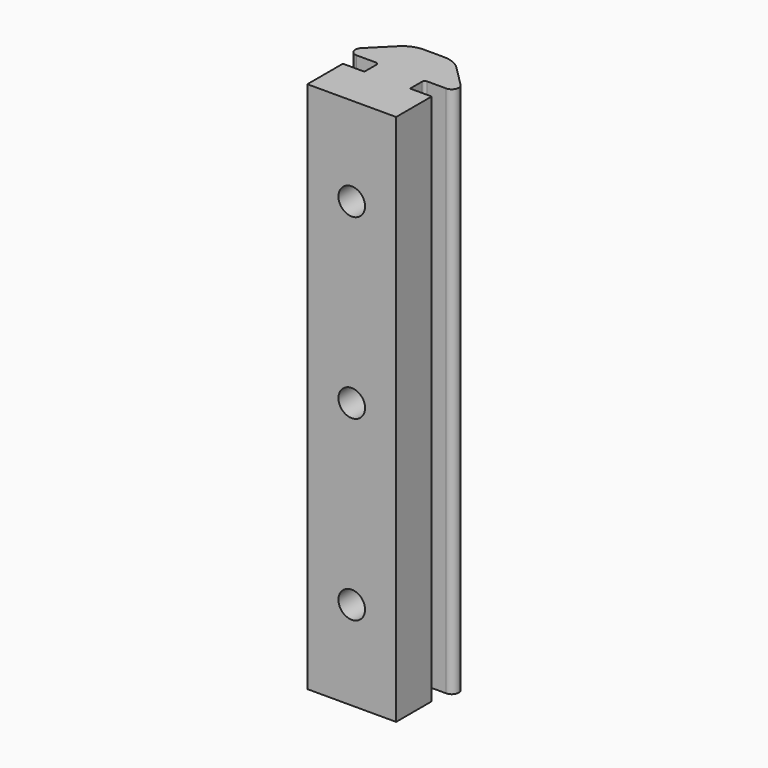
from build123d import *

# Parameters (mm, degrees)
F1_DEPTH = 60
F2_R     = 1.5
F3_DEPTH = 25
F4_R     = 2.5
F5_R     = 2.5
F6_DEPTH = 5


with BuildPart() as f1:
    # F0 (on Top) → F1 (new body)
    with BuildSketch(Plane.XY):
        with BuildLine():
            Line((-0.8, -20.2), (-0.8, -19.2))
            Line((-0.8, -19.2), (-0.8, -18.500001))
            ThreePointArc((-0.8, -18.500001), (-0.712132, -18.287869), (-0.5, -18.200001))
            Line((-0.5, -18.200001), (1.669121, -18.2))
            ThreePointArc((1.669121, -18.2), (2.389747, -17.718493), (2.220664, -16.868457))
            Line((2.220664, -16.868457), (-0.119113, -14.52868))
            ThreePointArc((-0.119113, -14.52868), (-1.092383, -13.878361), (-2.240433, -13.65))
            Line((-2.240433, -13.65), (-4.509567, -13.65))
            ThreePointArc((-4.509567, -13.65), (-5.657617, -13.878361), (-6.630887, -14.52868))
            Line((-6.630887, -14.52868), (-8.970664, -16.868457))
            ThreePointArc((-8.970664, -16.868457), (-9.139747, -17.718493), (-8.419121, -18.2))
            Line((-8.419121, -18.2), (-6.25, -18.200001))
            ThreePointArc((-6.25, -18.200001), (-6.037868, -18.287869), (-5.95, -18.500001))
            Line((-5.95, -18.500001), (-5.95, -19.2))
            Line((-5.95, -19.2), (-5.95, -20.2))
            Line((-5.95, -20.2), (-8.375, -20.2))
            Line((-8.375, -20.2), (-8.375, -25.2))
            Line((-8.375, -25.2), (-3.375, -25.2))
            Line((-3.375, -25.2), (1.625, -25.2))
            Line((1.625, -25.2), (1.625, -20.2))
            Line((1.625, -20.2), (-0.8, -20.2))
        make_face()
    extrude(amount=-F1_DEPTH)

    # F2 (on face) → F3 (cut)
    with BuildSketch(Plane.XZ.offset(25.2)):
        with Locations((-3.375, -50)):
            Circle(F2_R)
        with Locations((-3.375, -30)):
            Circle(F2_R)
        with Locations((-3.375, -10)):
            Circle(F2_R)
    extrude(amount=-F3_DEPTH, mode=Mode.SUBTRACT)

    # F4 (on face) + F5 (on face) → F6 (cut)
    with BuildSketch(Plane(origin=(0, -13.65, 0), x_dir=(-1, 0, 0), z_dir=(0, 1, 0))):
        with Locations((3.375, -10)):
            Circle(F4_R)
        with Locations((3.375, -30)):
            Circle(F4_R)
    with BuildSketch(Plane(origin=(0, -13.65, 0), x_dir=(-1, 0, 0), z_dir=(0, 1, 0))):
        with Locations((3.375, -50)):
            Circle(F5_R)
    extrude(amount=-F6_DEPTH, mode=Mode.SUBTRACT)


solid = f1.part
